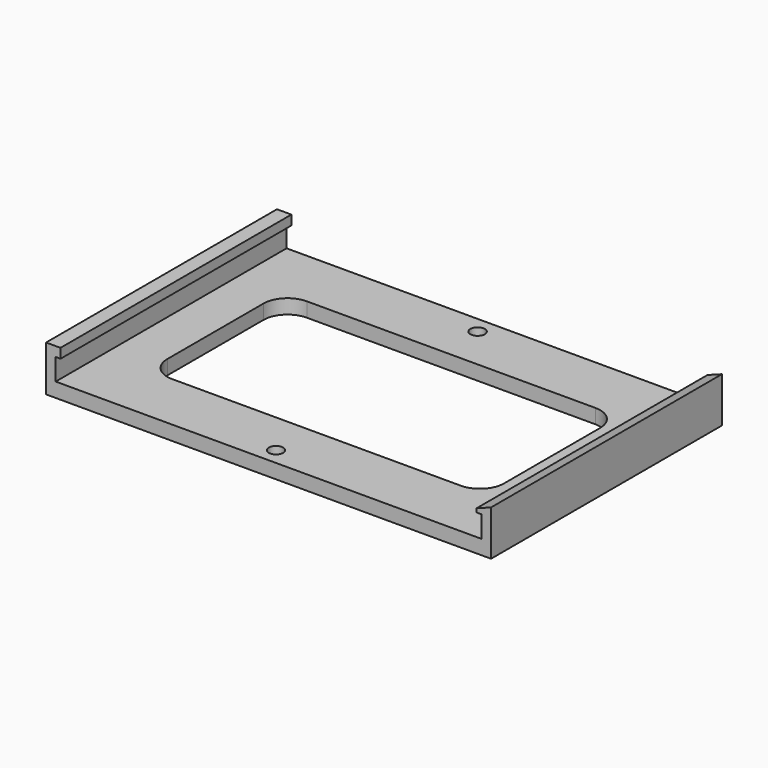
from build123d import *

# Parameters (mm, degrees)
F1_DEPTH = 60
F2_R     = 1.5
F3_DEPTH = 25
F4_W     = 70
F4_H     = 35
F5_DEPTH = 25
F6_R     = 5


with BuildPart() as f1:
    # F0 (on Front) → F1 (new body)
    with BuildSketch(Plane.XZ):
        Polygon((0, 6.5), (0, 0), (0, -3), (3, -3), (92.5, -3), (92.5, 0), (92.5, 6.395918), (89.5, 5.27192), (89.5, 4.5), (90.5, 4.5), (90.5, 0), (2, 0), (2, 4.5), (3, 4.5), (3, 6.5), align=None)
    extrude(amount=F1_DEPTH)

    # F2 (on face) → F3 (cut)
    with BuildSketch(Plane.XY):
        with Locations((45, -56.5)):
            Circle(F2_R)
        with Locations((44.5, -3.502359)):
            Circle(F2_R)
    extrude(amount=-F3_DEPTH, mode=Mode.SUBTRACT)

    # F4 (on face) → F5 (cut)
    with BuildSketch(Plane.XY):
        with Locations((46.2, -30)):
            Rectangle(F4_W, F4_H)
    extrude(amount=-F5_DEPTH, mode=Mode.SUBTRACT)

    # F6
    f6_edges = [f1.edges().sort_by_distance(p)[0] for p in [
        (11.2, -12.5, -1.5),
        (81.2, -47.5, -1.5),
        (81.2, -12.5, -1.5),
        (11.2, -47.5, -1.5),
    ]]
    fillet(f6_edges, radius=F6_R)


solid = f1.part
